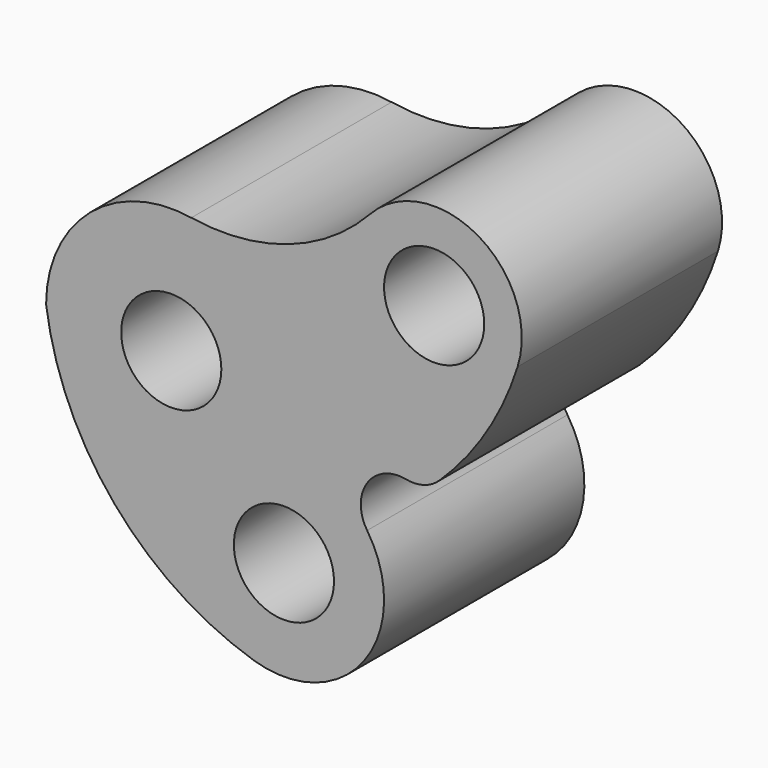
from build123d import *

# Parameters (mm, degrees)
F0_R     = 10
F1_DEPTH = 50


with BuildPart() as f1:
    # F0 (on Front) → F1 (new body)
    with BuildSketch(Plane.XZ):
        with BuildLine():
            ThreePointArc((39.686547, 36.91912), (23.37689, 26.32679), (3.999483, 24.678009))
            ThreePointArc((3.999483, 24.678009), (-16.202051, 19.039263), (-25, 0))
            ThreePointArc((-25, 0), (-11.365771, -30.57683), (16.529854, -49.088147))
            ThreePointArc((16.529854, -49.088147), (38.518348, -41.975497), (39.118997, -18.873054))
            ThreePointArc((39.118997, -18.873054), (39.121147, -10.524635), (46.842496, -7.350225))
            ThreePointArc((46.842496, -7.350225), (50.421061, -7.203724), (53.52365, -5.414442))
            ThreePointArc((53.52365, -5.414442), (62.920192, 6.15704), (69.174243, 19.687784))
            ThreePointArc((69.174243, 19.687784), (61.329279, 40.109396), (39.686547, 36.91912))
        make_face()
        with Locations((22.5, -30)):
            Circle(F0_R, mode=Mode.SUBTRACT)
        Circle(F0_R, mode=Mode.SUBTRACT)
        with Locations((52.5, 25)):
            Circle(F0_R, mode=Mode.SUBTRACT)
    extrude(amount=F1_DEPTH)


solid = f1.part
